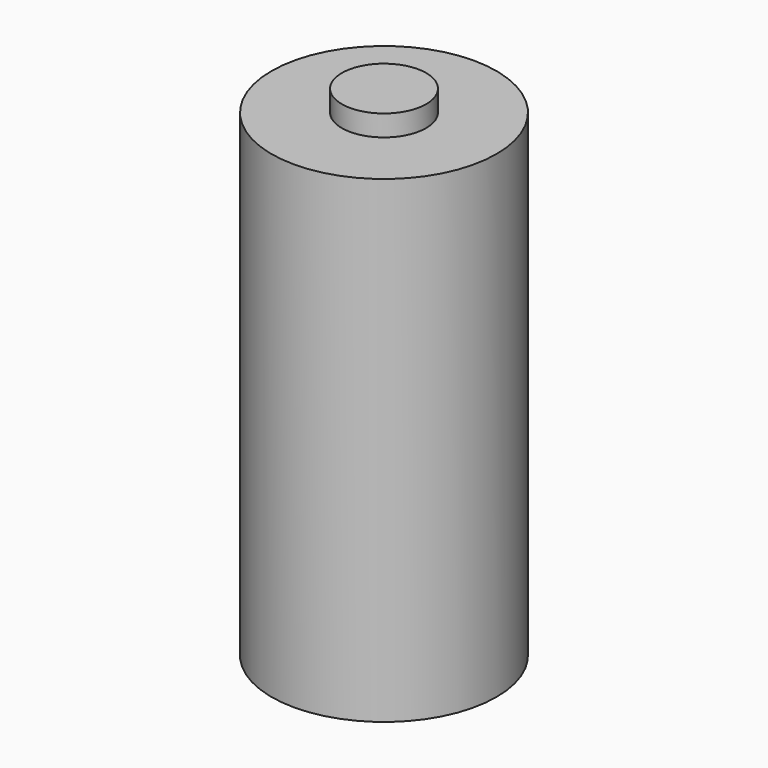
from build123d import *

# Parameters (mm, degrees)
CYLINDER_R        = 8
CYLINDER_DEPTH    = 34
CYLINDER001_R     = 3
CYLINDER001_DEPTH = 1.5


with BuildPart() as part:
    # Cylinder → Cylinder (join)
    with BuildSketch(Plane.XY):
        Circle(CYLINDER_R)
    extrude(amount=CYLINDER_DEPTH)

    # Cylinder001 → Cylinder001 (join)
    with BuildSketch(Plane.XY.offset(34)):
        Circle(CYLINDER001_R)
    extrude(amount=CYLINDER001_DEPTH)


solid = part.part
